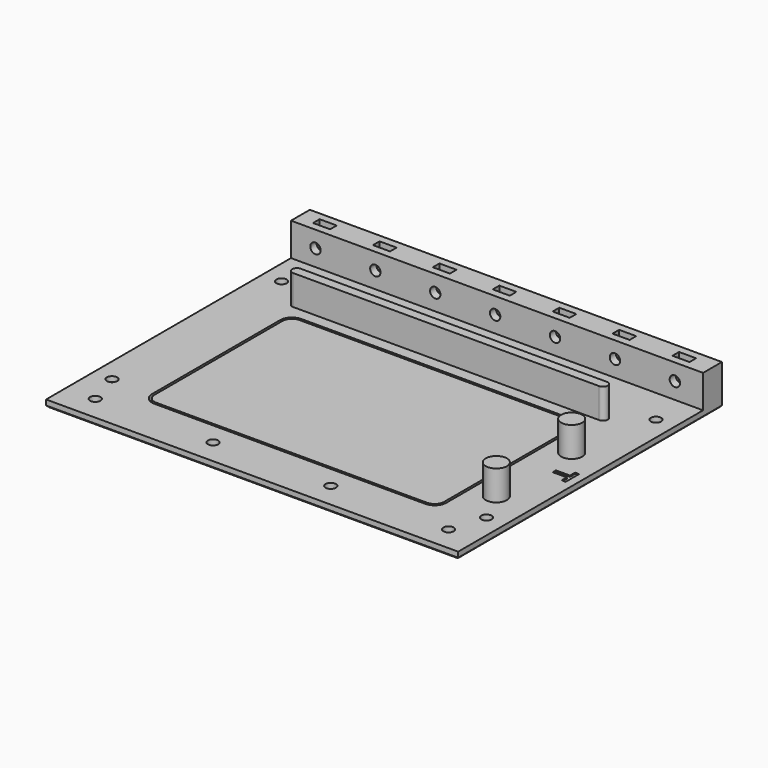
from build123d import *

# Parameters (mm, degrees)
SKETCH_W            = 175
SKETCH_H            = 140
SKETCH_R            = 2.2
PAD_DEPTH           = 3
SKETCH001_W         = 175
SKETCH001_H         = 10
PAD001_DEPTH        = 14
SKETCH002_R         = 2.2
POCKET_DEPTH        = 140.001
SKETCH003_W         = 7.25
SKETCH003_H         = 3.5
POCKET001_DEPTH     = 11.2
LINEARPATTERN_COUNT = 7
LINEARPATTERN_PITCH = 25.436
POCKET002_DEPTH     = 0.5
PAD002_DEPTH        = 12.7
POCKET003_DEPTH     = 3.001
SKETCH007_R         = 4.5
PAD003_DEPTH        = 12.7
SKETCH008_R         = 1.5
POCKET004_DEPTH     = 14
CHAMFER_SIZE        = 0.75
PAD004_DEPTH        = 3
PAD004_DEPTH_BACK   = 0.2
SKETCH010_R         = 1.95
PAD005_DEPTH        = 2


with BuildPart() as sideplate:
    # Sketch → Pad (new body)
    with BuildSketch(Plane.XY):
        with Locations((0, 70)):
            Rectangle(SKETCH_W, SKETCH_H)
        with Locations((-79.5, 115)):
            Circle(SKETCH_R, mode=Mode.SUBTRACT)
        with Locations((79.5, 115)):
            Circle(SKETCH_R, mode=Mode.SUBTRACT)
        with Locations((79.5, 25)):
            Circle(SKETCH_R, mode=Mode.SUBTRACT)
        with Locations((-79.5, 25)):
            Circle(SKETCH_R, mode=Mode.SUBTRACT)
        with Locations((-75, 10.5)):
            Circle(SKETCH_R, mode=Mode.SUBTRACT)
        with Locations((-25, 10.5)):
            Circle(SKETCH_R, mode=Mode.SUBTRACT)
        with Locations((25, 10.5)):
            Circle(SKETCH_R, mode=Mode.SUBTRACT)
        with Locations((75, 10.5)):
            Circle(SKETCH_R, mode=Mode.SUBTRACT)
    extrude(amount=PAD_DEPTH)

    # Sketch001 (on Face14 of Pad) → Pad001 (join)
    with BuildSketch(Plane.XY.offset(3)):
        with Locations((0, 135)):
            Rectangle(SKETCH001_W, SKETCH001_H)
    extrude(amount=PAD001_DEPTH)

    # Sketch002 (on Face5 of Pad001) → Pocket (cut, through all)
    with BuildSketch(Plane(origin=(0, 140, 0), x_dir=(-1, 0, 0), z_dir=(0, 1, 0))):
        with Locations((-75.508, 10)):
            Circle(SKETCH002_R)
        with Locations((-50.072, 10)):
            Circle(SKETCH002_R)
        with Locations((-24.636, 10)):
            Circle(SKETCH002_R)
        with Locations((0.8, 10)):
            Circle(SKETCH002_R)
        with Locations((26.236, 10)):
            Circle(SKETCH002_R)
        with Locations((51.672, 10)):
            Circle(SKETCH002_R)
        with Locations((77.108, 10)):
            Circle(SKETCH002_R)
    extrude(amount=-POCKET_DEPTH, mode=Mode.SUBTRACT)

    # Sketch003 (on Face18 of Pocket) → Pocket001 (cut)
    with BuildSketch(Plane.XY.offset(17)):
        with Locations((75.508, 135)):
            Rectangle(SKETCH003_W, SKETCH003_H)
    pocket001 = extrude(amount=-POCKET001_DEPTH, mode=Mode.SUBTRACT)

    # LinearPattern: Pocket001 ×7
    with Locations(*[(-i * LINEARPATTERN_PITCH, 0, 0) for i in range(1, LINEARPATTERN_COUNT)]):
        add(pocket001, mode=Mode.SUBTRACT)

    # Sketch004 (on Face7 of LinearPattern) → Pocket002 (cut)
    with BuildSketch(Plane.XY.offset(3)):
        Polygon((84, 68.55), (84, 61.45), (82.3, 61.45), (82.3, 64.15), (76.3, 64.15), (76.3, 65.85), (82.3, 65.85), (82.3, 68.55), align=None)
    extrude(amount=-POCKET002_DEPTH, mode=Mode.SUBTRACT)

    # Sketch005 (on Face7 of Pocket002) → Pad002 (join)
    with BuildSketch(Plane.XY.offset(3)):
        with BuildLine():
            ThreePointArc((65, 103), (67, 105), (65, 107))
            Line((65, 107), (-65, 107))
            ThreePointArc((-65, 107), (-67, 105), (-65, 103))
            Line((65, 103), (-65, 103))
        make_face()
    extrude(amount=PAD002_DEPTH)

    # Sketch006 (on Face7 of Pad002) → Pocket003 (cut, through all)
    with BuildSketch(Plane.XY.offset(3)):
        with BuildLine():
            Line((-57.5, 98), (57.5, 98))
            ThreePointArc((62.5, 93), (61.035534, 96.535534), (57.5, 98))
            Line((62.5, 93), (62.5, 25))
            ThreePointArc((57.5, 20), (61.035534, 21.464466), (62.5, 25))
            Line((57.5, 20), (-57.5, 20))
            ThreePointArc((-62.5, 25), (-61.035534, 21.464466), (-57.5, 20))
            Line((-62.5, 25), (-62.5, 93))
            ThreePointArc((-57.5, 98), (-61.035534, 96.535534), (-62.5, 93))
        make_face()
    extrude(amount=-POCKET003_DEPTH, mode=Mode.SUBTRACT)

    # Sketch007 (on Face7 of Pocket003) → Pad003 (join)
    with BuildSketch(Plane.XY.offset(3)):
        with Locations((72.5, 79)):
            Circle(SKETCH007_R)
        with Locations((72.5, 39)):
            Circle(SKETCH007_R)
    extrude(amount=PAD003_DEPTH)

    # Sketch008 (on Face4 of Pad003) → Pocket004 (cut)
    with BuildSketch(Plane(origin=(0, 0, 0), x_dir=(1, 0, 0), z_dir=(0, 0, -1))):
        with Locations((72.5, -79)):
            Circle(SKETCH008_R)
        with Locations((72.5, -39)):
            Circle(SKETCH008_R)
    extrude(amount=-POCKET004_DEPTH, mode=Mode.SUBTRACT)

    # Chamfer
    chamfer_edges = [sideplate.edges().sort_by_distance(p)[0] for p in [
        (0, 140, 0),
        (-87.5, 70, 0),
        (87.5, 70, 0),
        (0, 0, 0),
        (-77.2, 10.5, 0),
        (-27.2, 10.5, 0),
        (71, 39, 0),
        (72.8, 10.5, 0),
        (71, 79, 0),
        (22.8, 10.5, 0),
        (61.035534, 96.535534, 0),
        (62.5, 59, 0),
        (0, 98, 0),
        (61.035534, 21.464466, 0),
        (-61.035534, 96.535534, 0),
        (0, 20, 0),
        (-62.5, 59, 0),
        (-61.035534, 21.464466, 0),
        (77.3, 115, 0),
        (77.3, 25, 0),
        (-81.7, 115, 0),
        (-81.7, 25, 0),
    ]]
    chamfer(chamfer_edges, length=CHAMFER_SIZE)


with BuildPart() as vented_cover:
    # Sketch009 → Pad004 (new body, two sides)
    with BuildSketch(Plane.XY) as pad004_sk:
        with BuildLine():
            Line((-57.5, 97), (57.5, 97))
            ThreePointArc((61.5, 93), (60.328427, 95.828427), (57.5, 97))
            Line((61.5, 93), (61.5, 25))
            ThreePointArc((57.5, 21), (60.328427, 22.171573), (61.5, 25))
            Line((57.5, 21), (-57.5, 21))
            ThreePointArc((-61.5, 25), (-60.328427, 22.171573), (-57.5, 21))
            Line((-61.5, 25), (-61.5, 93))
            ThreePointArc((-57.5, 97), (-60.328427, 95.828427), (-61.5, 93))
        make_face()
    extrude(amount=PAD004_DEPTH)
    extrude(pad004_sk.sketch, amount=-PAD004_DEPTH_BACK)

    # Sketch010 (on Face9 of Pad004) → Pad005 (join)
    with BuildSketch(Plane(origin=(0, 0, -0.2), x_dir=(1, 0, 0), z_dir=(0, 0, -1))):
        with BuildLine():
            Line((57.5, -100.5), (-57.5, -100.5))
            ThreePointArc((-65, -93), (-62.803301, -98.303301), (-57.5, -100.5))
            Line((-65, -93), (-65, -25))
            ThreePointArc((-57.5, -17.5), (-62.803301, -19.696699), (-65, -25))
            Line((-57.5, -17.5), (57.5, -17.5))
            ThreePointArc((62.617387, -19.517085), (60.250286, -18.02247), (57.5, -17.5))
            Line((62.617387, -19.517085), (77.617387, -33.517085))
            ThreePointArc((80, -39), (79.378605, -36.010887), (77.617387, -33.517085))
            Line((80, -79), (80, -39))
            ThreePointArc((77.617387, -84.482915), (79.378605, -81.989113), (80, -79))
            Line((62.617387, -98.482915), (77.617387, -84.482915))
            ThreePointArc((57.5, -100.5), (60.250286, -99.97753), (62.617387, -98.482915))
        make_face()
        with Locations((72.5, -39)):
            Circle(SKETCH010_R, mode=Mode.SUBTRACT)
        with Locations((72.5, -79)):
            Circle(SKETCH010_R, mode=Mode.SUBTRACT)
    extrude(amount=PAD005_DEPTH)


solid = Compound([sideplate.part, vented_cover.part])
